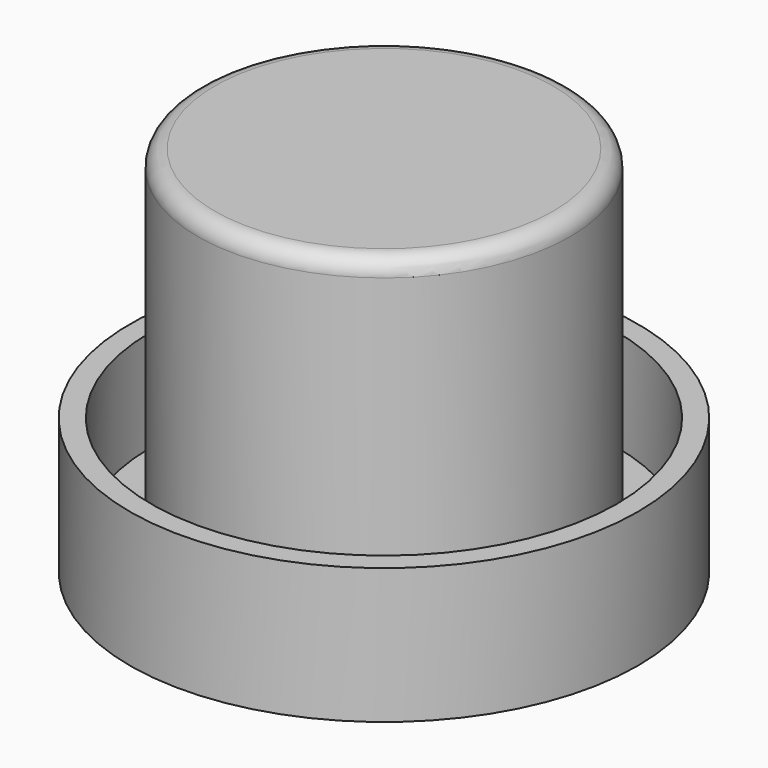
from build123d import *

# Parameters (mm, degrees)
F0_R     = 15
F0_R_2   = 13.75
F1_DEPTH = 6
F0_R_3   = 11
F2_DEPTH = 2
F3_DEPTH = 20
F4_R     = 1


with BuildPart() as f1:
    # F0 (on Top) → F1 (new body)
    with BuildSketch(Plane.XY):
        Circle(F0_R)
        Circle(F0_R_2, mode=Mode.SUBTRACT)
    extrude(amount=F1_DEPTH)

    # F0 (on Top) → F2 (join)
    with BuildSketch(Plane.XY):
        Circle(F0_R)
        Circle(F0_R_2, mode=Mode.SUBTRACT)
        Circle(F0_R_2)
        Circle(F0_R_3, mode=Mode.SUBTRACT)
        Circle(F0_R_3)
    extrude(amount=-F2_DEPTH)

    # F0 (on Top) → F3 (join)
    with BuildSketch(Plane.XY):
        Circle(F0_R_3)
    extrude(amount=F3_DEPTH)

    # F4
    f4_edges = [f1.edges().sort_by_distance(p)[0] for p in [
        (-11, 0, 20),
    ]]
    fillet(f4_edges, radius=F4_R)


solid = f1.part
